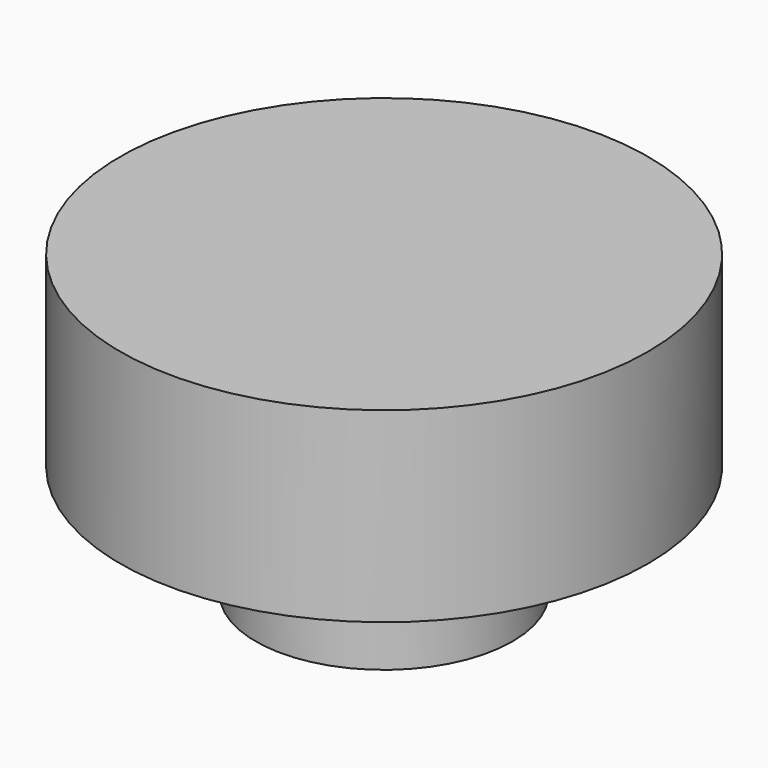
from build123d import *

# Parameters (mm, degrees)
F0_R     = 54.2445542545
F1_DEPTH = 38.354
F2_R     = 26.4064404113
F3_DEPTH = 23.114
F4_T     = -2.54


with BuildPart() as f1:
    # F0 (on Top) → F1 (new body)
    with BuildSketch(Plane.XY):
        Circle(F0_R)
    extrude(amount=-F1_DEPTH)

    # F2 (on face) → F3 (join)
    with BuildSketch(Plane(origin=(0, 0, -38.354), x_dir=(1, 0, 0), z_dir=(0, 0, -1))):
        Circle(F2_R)
    extrude(amount=F3_DEPTH)

    # F4
    f4_openings = [f1.faces().sort_by_distance(p)[0] for p in [
        (0, 0, -61.468),
    ]]
    offset(amount=F4_T, openings=f4_openings, kind=Kind.INTERSECTION)


solid = f1.part
